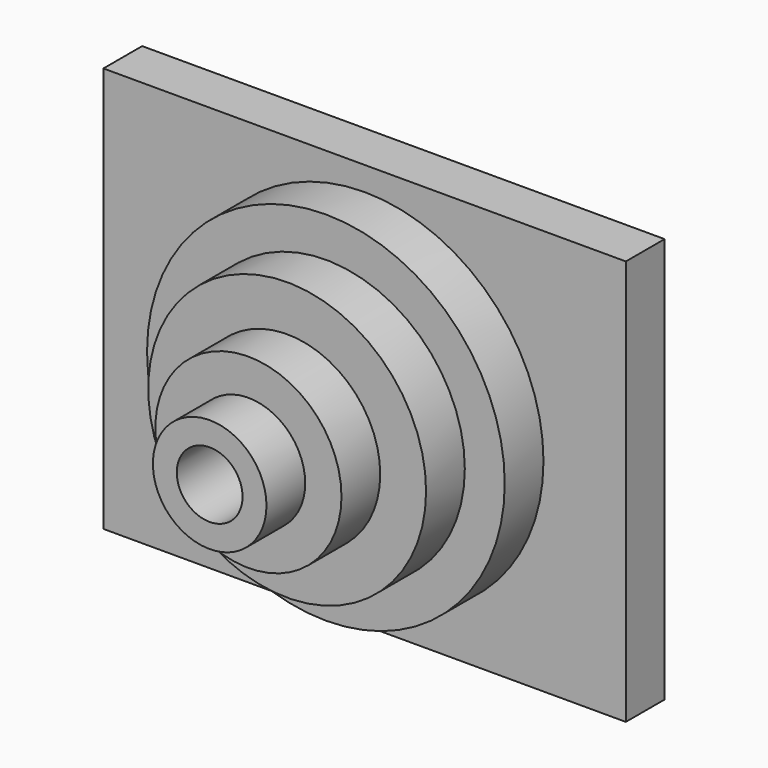
from build123d import *

# Parameters (mm, degrees)
F0_W      = 53.943
F0_H      = 41.85567
F1_DEPTH  = 5
F2_R      = 18.466
F3_DEPTH  = 5
F4_R      = 14.344
F5_DEPTH  = 5
F6_R      = 9.61
F7_DEPTH  = 5
F8_R      = 5.8635
F9_DEPTH  = 5
F10_R     = 3.3955
F11_DEPTH = 25.001


with BuildPart() as f1:
    # F0 (on Front) → F1 (new body)
    with BuildSketch(Plane.XZ):
        Rectangle(F0_W, F0_H)
    extrude(amount=F1_DEPTH)

    # F2 (on face) → F3 (join)
    with BuildSketch(Plane.XZ.offset(5)):
        Circle(F2_R)
    extrude(amount=F3_DEPTH)

    # F4 (on face) → F5 (join)
    with BuildSketch(Plane.XZ.offset(10)):
        Circle(F4_R)
    extrude(amount=F5_DEPTH)

    # F6 (on face) → F7 (join)
    with BuildSketch(Plane.XZ.offset(15)):
        Circle(F6_R)
    extrude(amount=F7_DEPTH)

    # F8 (on face) → F9 (join)
    with BuildSketch(Plane.XZ.offset(20)):
        Circle(F8_R)
    extrude(amount=F9_DEPTH)

    # F10 (on face) → F11 (cut, through all)
    with BuildSketch(Plane.XZ.offset(25)):
        Circle(F10_R)
    extrude(amount=-F11_DEPTH, mode=Mode.SUBTRACT)


solid = f1.part
